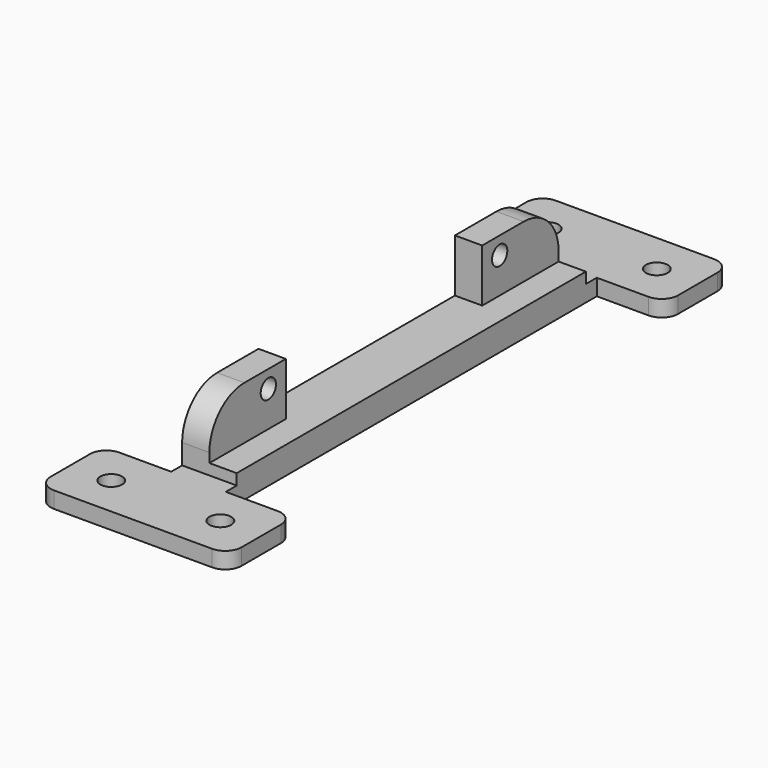
from build123d import *

# Parameters (mm, degrees)
SKETCH_R     = 2
PAD_DEPTH    = 3
SKETCH001_W  = 5
SKETCH001_H  = 80
PAD001_DEPTH = 11.7
SKETCH002_R  = 1.75
SKETCH002_W  = 45
SKETCH002_H  = 10
POCKET_DEPTH = 15
SKETCH003_W  = 5
SKETCH003_H  = 80
PAD002_DEPTH = 2
FILLET_R     = 8


with BuildPart() as part:
    # Sketch → Pad (new body)
    with BuildSketch(Plane.XY):
        with BuildLine():
            Line((-14.5, 57.5), (14.5, 57.5))
            ThreePointArc((17.5, 54.5), (16.62132, 56.62132), (14.5, 57.5))
            Line((17.5, 54.5), (17.5, 45.5))
            ThreePointArc((14.5, 42.5), (16.62132, 43.37868), (17.5, 45.5))
            Line((14.5, 42.5), (5, 42.5))
            Line((5, 42.5), (5, -42.5))
            Line((5, -42.5), (14.5, -42.5))
            ThreePointArc((17.5, -45.5), (16.62132, -43.37868), (14.5, -42.5))
            Line((17.5, -45.5), (17.5, -54.5))
            ThreePointArc((14.5, -57.5), (16.62132, -56.62132), (17.5, -54.5))
            Line((14.5, -57.5), (-14.5, -57.5))
            ThreePointArc((-17.5, -54.5), (-16.62132, -56.62132), (-14.5, -57.5))
            Line((-17.5, -54.5), (-17.5, -45.5))
            ThreePointArc((-14.5, -42.5), (-16.62132, -43.37868), (-17.5, -45.5))
            Line((-5, -42.5), (-14.5, -42.5))
            Line((-5, 42.5), (-5, -42.5))
            Line((-14.5, 42.5), (-5, 42.5))
            ThreePointArc((-17.5, 45.5), (-16.62132, 43.37868), (-14.5, 42.5))
            Line((-17.5, 45.5), (-17.5, 54.5))
            ThreePointArc((-14.5, 57.5), (-16.62132, 56.62132), (-17.5, 54.5))
        make_face()
        with Locations((-10, 50)):
            Circle(SKETCH_R, mode=Mode.SUBTRACT)
        with Locations((10, 50)):
            Circle(SKETCH_R, mode=Mode.SUBTRACT)
        with Locations((-10, -50)):
            Circle(SKETCH_R, mode=Mode.SUBTRACT)
        with Locations((10, -50)):
            Circle(SKETCH_R, mode=Mode.SUBTRACT)
    extrude(amount=PAD_DEPTH)

    # Sketch001 → Pad001 (join)
    with BuildSketch(Plane.XY.offset(3)):
        with Locations((-2.5, 0)):
            Rectangle(SKETCH001_W, SKETCH001_H)
    extrude(amount=PAD001_DEPTH)

    # Sketch002 → Pocket (cut)
    with BuildSketch(Plane.YZ.offset(5)):
        with Locations((-26.5, 11.5)):
            Circle(SKETCH002_R)
        with Locations((26.5, 11.5)):
            Circle(SKETCH002_R)
        with Locations((0, 10)):
            Rectangle(SKETCH002_W, SKETCH002_H)
    extrude(amount=-POCKET_DEPTH, mode=Mode.SUBTRACT)

    # Sketch003 → Pad002 (join)
    with BuildSketch(Plane.XY.offset(3)):
        with Locations((2.5, 0)):
            Rectangle(SKETCH003_W, SKETCH003_H)
    extrude(amount=PAD002_DEPTH)

    # Fillet
    fillet_edges = [part.edges().sort_by_distance(p)[0] for p in [
        (-2.5, -40, 14.7),
        (-2.5, 40, 14.7),
    ]]
    fillet(fillet_edges, radius=FILLET_R)


solid = part.part
